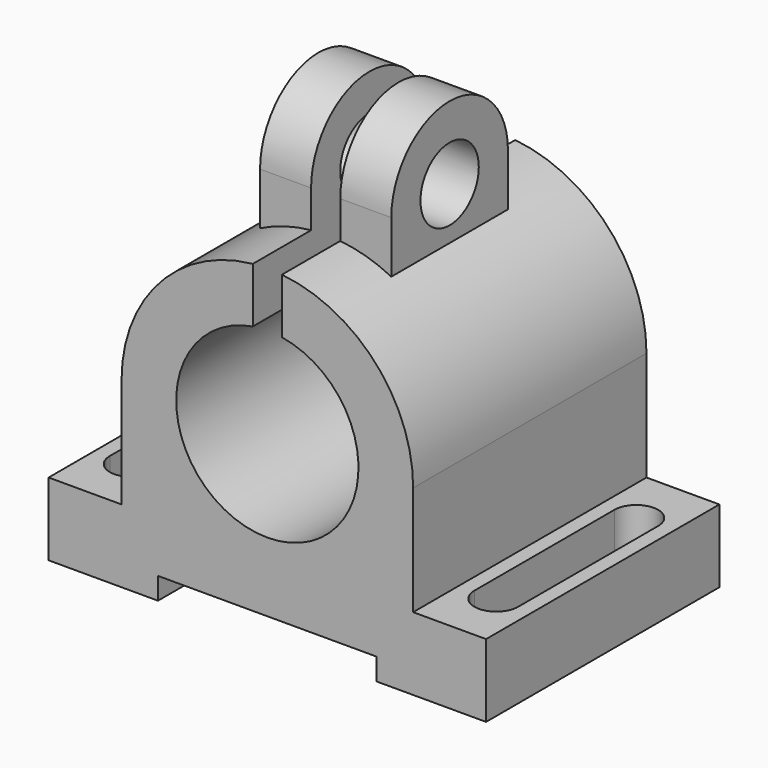
from build123d import *

# Parameters (mm, degrees)
SKETCH_W             = 60
SKETCH_H             = 40
PAD_DEPTH            = 10
PAD001_DEPTH         = 20
SKETCH002_R          = 5
PAD002_DEPTH         = 9
POCKET_DEPTH         = 20.001
POCKET_DEPTH_BACK    = 20.001
SKETCH004_W          = 30
SKETCH004_H          = 3
POCKET001_DEPTH      = 20.001
POCKET001_DEPTH_BACK = 20.001
POCKET002_DEPTH      = 187.61763
POCKET002_DEPTH_BACK = 247.61763


with BuildPart() as part:
    # Sketch → Pad (new body)
    with BuildSketch(Plane.XY):
        Rectangle(SKETCH_W, SKETCH_H)
    extrude(amount=PAD_DEPTH)

    # Sketch001 → Pad001 (join, symmetric)
    with BuildSketch(Plane.XZ):
        with BuildLine():
            Line((-20, 10), (-20, 25))
            ThreePointArc((20, 25), (0, 45), (-20, 25))
            Line((20, 25), (20, 10))
            Line((-20, 10), (20, 10))
        make_face()
    extrude(amount=PAD001_DEPTH, both=True)

    # Sketch002 → Pad002 (join, symmetric)
    with BuildSketch(Plane.YZ):
        with BuildLine():
            Line((-10, 29.999977), (-10, 50))
            ThreePointArc((10, 49.999977), (1.1e-05, 60), (-10, 50))
            Line((10, 49.999977), (10, 29.999977))
            Line((10, 29.999977), (-10, 29.999977))
        make_face()
        with Locations((0, 50)):
            Circle(SKETCH002_R, mode=Mode.SUBTRACT)
    extrude(amount=PAD002_DEPTH, both=True)

    # Sketch003 → Pocket (cut, two sides)
    with BuildSketch(Plane.XZ) as pocket_sk:
        with BuildLine():
            ThreePointArc((-2, 37.338963), (0, 12.5), (2, 37.338963))
            Line((2, 70.818963), (2, 37.338963))
            Line((-2, 70.818963), (2, 70.818963))
            Line((-2, 37.338963), (-2, 70.818963))
        make_face()
    extrude(amount=-POCKET_DEPTH, mode=Mode.SUBTRACT)
    extrude(pocket_sk.sketch, amount=POCKET_DEPTH_BACK, mode=Mode.SUBTRACT)

    # Sketch004 → Pocket001 (cut, two sides)
    with BuildSketch(Plane.XZ) as pocket001_sk:
        with Locations((0, 1.5)):
            Rectangle(SKETCH004_W, SKETCH004_H)
    extrude(amount=-POCKET001_DEPTH, mode=Mode.SUBTRACT)
    extrude(pocket001_sk.sketch, amount=POCKET001_DEPTH_BACK, mode=Mode.SUBTRACT)

    # Sketch005 → Pocket002 (cut, two sides)
    with BuildSketch(Plane.XY) as pocket002_sk:
        with BuildLine():
            ThreePointArc((28, 12), (25, 15), (22, 12))
            Line((22, 12), (22, -12))
            ThreePointArc((22, -12), (25, -15), (28, -12))
            Line((28, 12), (28, -12))
        make_face()
    pocket002 = extrude(amount=-POCKET002_DEPTH, mode=Mode.SUBTRACT) + extrude(pocket002_sk.sketch, amount=POCKET002_DEPTH_BACK, mode=Mode.SUBTRACT)

    # Mirrored: Pocket002 across Sketch005 V_Axis
    add(pocket002.mirror(Plane(origin=(0, 0, 0), x_dir=(0, 0, 1), z_dir=(1, 0, 0))), mode=Mode.SUBTRACT)


solid = part.part
